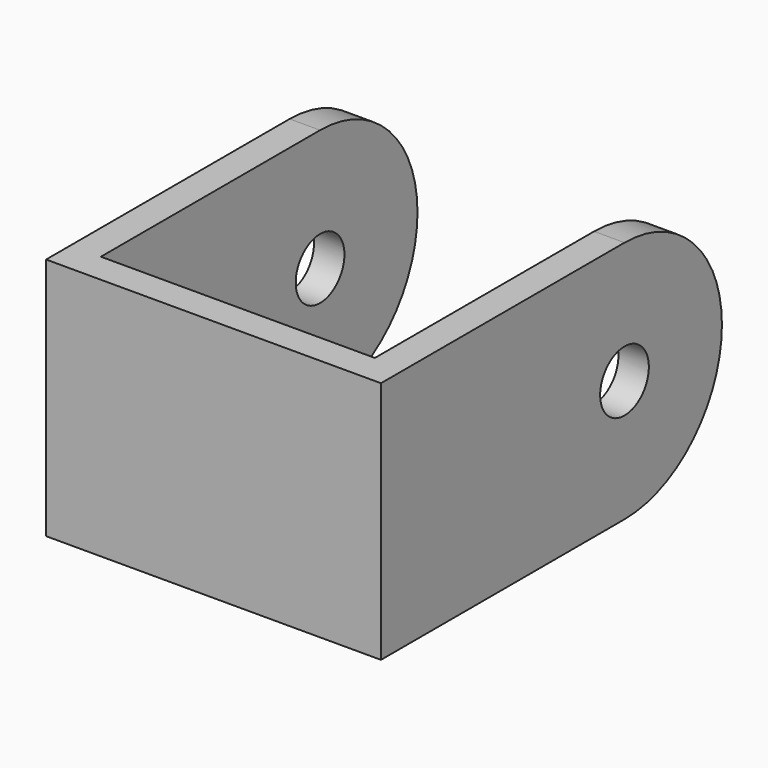
from build123d import *

# Parameters (mm, degrees)
F1_DEPTH = 25.4
F2_R     = 3.175
F3_DEPTH = 34.925


with BuildPart() as f1:
    # F0 (on Top) → F1 (new body)
    with BuildSketch(Plane.XY):
        Polygon((3.175, 0), (0, 0), (0, -44.45), (34.925, -44.45), (34.925, 0), (31.75, 0), (31.75, -41.275), (3.175, -41.275), align=None)
    extrude(amount=F1_DEPTH)

    # F2 (on Right) → F3 (cut)
    with BuildSketch(Plane.YZ):
        with BuildLine():
            Line((0, 0), (0, 12.7))
            ThreePointArc((0, 12.7), (-3.719744, 3.719744), (-12.7, 0))
            Line((-12.7, 0), (0, 0))
        make_face()
        with BuildLine():
            ThreePointArc((-12.7, 25.4), (-3.719744, 21.680256), (0, 12.7))
            Line((0, 12.7), (0, 25.4))
            Line((0, 25.4), (-12.7, 25.4))
        make_face()
        with Locations((-12.7, 12.7)):
            Circle(F2_R)
    extrude(amount=F3_DEPTH, mode=Mode.SUBTRACT)


solid = f1.part
